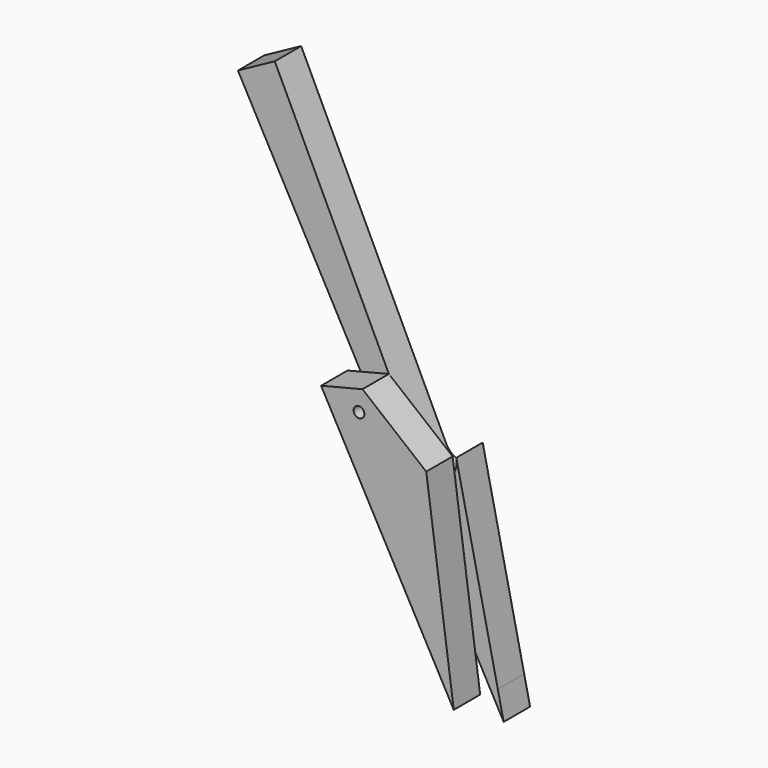
from build123d import *

# Parameters (mm, degrees)
F1_DEPTH = 25.4
F2_R     = 4.1437119387
F3_DEPTH = 25.4


with BuildPart() as f1:
    # F0 (on Front) → F1 (new body)
    with BuildSketch(Plane.XZ):
        with BuildLine():
            ThreePointArc((-9.9044003678, 18.1502769969), (-8.0547579946, 19.032872048), (-6.2147079202, 19.9352947077))
            Line((-6.2147079202, 19.9352947077), (-46.6778621011, 149.7314031902))
            ThreePointArc((-46.6778621011, 149.7314031902), (-57.1339785141, 150.3004031741), (-64.6699537882, 157.5711120868))
            Line((-64.6699537882, 157.5711120868), (-164.7902710869, 366.5667436756))
            ThreePointArc((-164.7902710869, 366.5667436756), (-178.8165155484, 360.0083247343), (-192.2644245511, 352.3335520235))
            Line((-192.2644245511, 352.3335520235), (-76.6598464682, 140.4827547622))
            Line((-76.6598464682, 140.4827547622), (-9.9044003678, 18.1502769969))
        make_face()
        with BuildLine():
            ThreePointArc((-85.5717222096, 190.690279007), (-86.6835987436, 187.3650239492), (-89.5719777393, 185.3773475663))
            ThreePointArc((-89.5719777393, 185.3773475663), (-95.5164605511, 194.0155340647), (-85.5717222096, 190.690279007))
        make_face(mode=Mode.SUBTRACT)
        with BuildLine():
            Line((-46.6778621011, 149.7314031902), (-6.2147079202, 19.9352947077))
            ThreePointArc((-6.2147079202, 19.9352947077), (-5.3731283227, 20.3562515873), (-4.5336362392, 20.7813562276))
            Line((-4.5336362392, 20.7813562276), (-36.486815996, 167.2488662127))
            ThreePointArc((-36.486815996, 167.2488662127), (-36.2285449069, 165.6595376261), (-36.1421225965, 164.051681757))
            ThreePointArc((-36.1421225965, 164.051681757), (-39.0598234065, 155.1624722148), (-46.6778621011, 149.7314031902))
        make_face()
        with BuildLine():
            ThreePointArc((-192.2644245511, 352.3335520235), (-178.8165155484, 360.0083247343), (-164.7902710869, 366.5667436756))
            Line((-164.7902710869, 366.5667436756), (-176.2783657361, 390.547506639))
            Line((-176.2783657361, 390.547506639), (-204.6646028757, 375.0574588776))
            Line((-204.6646028757, 375.0574588776), (-192.2644245511, 352.3335520235))
        make_face()
        with BuildLine():
            Line((-9.9044003678, 18.1502769969), (0, 0))
            Line((0, 0), (-6.2147079202, 19.9352947077))
            ThreePointArc((-6.2147079202, 19.9352947077), (-8.0547579946, 19.032872048), (-9.9044003678, 18.1502769969))
        make_face()
        with BuildLine():
            Line((-6.2147079202, 19.9352947077), (0, 0))
            Line((0, 0), (-4.5336362392, 20.7813562276))
            ThreePointArc((-4.5336362392, 20.7813562276), (-5.3731283227, 20.3562515873), (-6.2147079202, 19.9352947077))
        make_face()
    extrude(amount=F1_DEPTH)


with BuildPart() as f3:
    # F2 (on face) → F3 (new body)
    with BuildSketch(Plane.XZ.offset(25.4)):
        Polygon((-120.2942579985, 199.1302073002), (-18.1274960699, 12.6008201535), (-39.3269173801, 167.2339737415), (-88.4215508565, 207.1512588988), align=None)
        with Locations((-91.1000296474, 190.690279007)):
            Circle(F2_R, mode=Mode.SUBTRACT)
    extrude(amount=F3_DEPTH)


solid = Compound([f1.part, f3.part])
